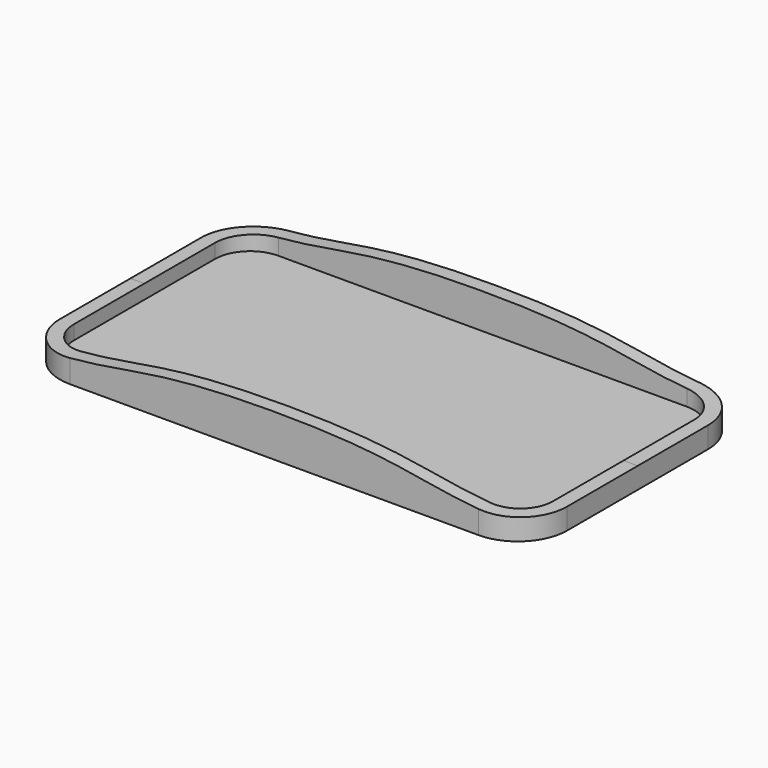
from build123d import *

# Parameters (mm, degrees)
F1_DEPTH = 2
F2_DEPTH = 12
F4_DEPTH = 49.5


with BuildPart() as f1:
    # F0 (on Top) → F1 (new body)
    with BuildSketch(Plane.XY):
        with BuildLine():
            Line((-58, -35), (58, -35))
            ThreePointArc((58, -35), (65.071068, -32.071068), (68, -25))
            Line((68, -25), (68, 25))
            ThreePointArc((68, 25), (65.071068, 32.071068), (58, 35))
            Line((58, 35), (-58, 35))
            ThreePointArc((-58, 35), (-65.071068, 32.071068), (-68, 25))
            Line((-68, 25), (-68, -25))
            ThreePointArc((-68, -25), (-65.071068, -32.071068), (-58, -35))
        make_face()
    extrude(amount=F1_DEPTH)

    # F0 (on Top) → F2 (join)
    with BuildSketch(Plane.XY):
        with BuildLine():
            Line((72, -25), (72, 25))
            ThreePointArc((72, 25), (67.899495, 34.899495), (58, 39))
            Line((58, 39), (-58, 39))
            ThreePointArc((-58, 39), (-67.899495, 34.899495), (-72, 25))
            Line((-72, 25), (-72, -25))
            ThreePointArc((-72, -25), (-67.899495, -34.899495), (-58, -39))
            Line((-58, -39), (58, -39))
            ThreePointArc((58, -39), (67.899495, -34.899495), (72, -25))
        make_face()
        with BuildLine():
            ThreePointArc((68, -25), (65.071068, -32.071068), (58, -35))
            Line((58, -35), (-58, -35))
            ThreePointArc((-58, -35), (-65.071068, -32.071068), (-68, -25))
            Line((-68, -25), (-68, 25))
            ThreePointArc((-68, 25), (-65.071068, 32.071068), (-58, 35))
            Line((-58, 35), (58, 35))
            ThreePointArc((58, 35), (65.071068, 32.071068), (68, 25))
            Line((68, 25), (68, -25))
        make_face(mode=Mode.SUBTRACT)
    extrude(amount=F2_DEPTH)

    # F3 (on Front) → F4 (intersect, symmetric)
    with BuildSketch(Plane.XZ):
        with BuildLine():
            Line((-72, 0), (72, 0))
            Line((72, 0), (72, 6))
            add(Edge.make_bspline(
                [(72, 6), (42.269494, 6), (41.599404, 12), (0, 12)],
                knots=[0, 0, 0, 0, 72.249567, 72.249567, 72.249567, 72.249567], degree=3))
            add(Edge.make_bspline(
                [(-72, 6), (-42.269494, 6), (-41.599404, 12), (0, 12)],
                knots=[0, 0, 0, 0, 72.249567, 72.249567, 72.249567, 72.249567], degree=3))
            Line((-72, 6), (-72, 0))
        make_face()
    extrude(amount=F4_DEPTH, both=True, mode=Mode.INTERSECT)


solid = f1.part
